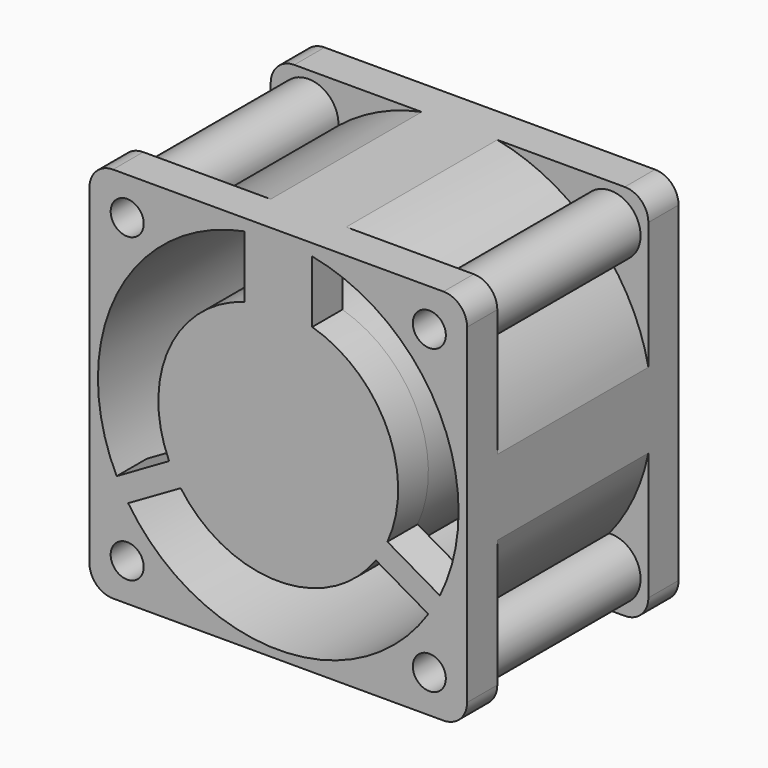
from build123d import *

# Parameters (mm, degrees)
F0_W     = 40
F0_H     = 40
F0_R     = 1.75
F0_R_2   = 19.1
F1_DEPTH = 14
F3_DEPTH = 10
F4_R     = 2.5
F6_DEPTH = 4


with BuildPart() as f1:
    # F0 (on Front) → F1 (new body, symmetric)
    with BuildSketch(Plane.XZ):
        Rectangle(F0_W, F0_H)
        with Locations((-16, -16)):
            Circle(F0_R, mode=Mode.SUBTRACT)
        with Locations((16, -16)):
            Circle(F0_R, mode=Mode.SUBTRACT)
        with Locations((-16, 16)):
            Circle(F0_R, mode=Mode.SUBTRACT)
        Circle(F0_R_2, mode=Mode.SUBTRACT)
        with Locations((16, 16)):
            Circle(F0_R, mode=Mode.SUBTRACT)
    extrude(amount=F1_DEPTH, both=True)

    # F2 (on Front) → F3 (cut, symmetric)
    with BuildSketch(Plane.XZ):
        with BuildLine():
            ThreePointArc((-15.8567471072, 12.8282333616), (-18.2450640303, 18.2450640303), (-12.8282333616, 15.8567471072))
            ThreePointArc((-12.8282333616, 15.8567471072), (-8.6653906808, 18.463775463), (-4, 20))
            Line((-4, 20), (-4, 20.3960780544))
            Line((-4, 20.3960780544), (-20.3960780544, 20.3960780544))
            Line((-20.3960780544, 20.3960780544), (-20.3960780544, 4))
            Line((-20.3960780544, 4), (-20, 4))
            ThreePointArc((-20, 4), (-18.463775463, 8.6653906808), (-15.8567471072, 12.8282333616))
        make_face()
        with BuildLine():
            Line((20.3960780544, 4), (20.3960780544, 20.3960780544))
            Line((20.3960780544, 20.3960780544), (4, 20.3960780544))
            Line((4, 20.3960780544), (4, 20))
            ThreePointArc((4, 20), (8.6653906808, 18.463775463), (12.8282333616, 15.8567471072))
            ThreePointArc((12.8282333616, 15.8567471072), (18.2450640303, 18.2450640303), (15.8567471072, 12.8282333616))
            ThreePointArc((15.8567471072, 12.8282333616), (18.463775463, 8.6653906808), (20, 4))
            Line((20, 4), (20.3960780544, 4))
        make_face()
        with BuildLine():
            Line((-20.3960780544, -4), (-20.3960780544, -20.3960780544))
            Line((-20.3960780544, -20.3960780544), (-4, -20.3960780544))
            Line((-4, -20.3960780544), (-4, -20))
            ThreePointArc((-4, -20), (-8.6653906808, -18.463775463), (-12.8282333616, -15.8567471072))
            ThreePointArc((-12.8282333616, -15.8567471072), (-18.2450640303, -18.2450640303), (-15.8567471072, -12.8282333616))
            ThreePointArc((-15.8567471072, -12.8282333616), (-18.463775463, -8.6653906808), (-20, -4))
            Line((-20, -4), (-20.3960780544, -4))
        make_face()
        with BuildLine():
            Line((4, -20.3960780544), (20.3960780544, -20.3960780544))
            Line((20.3960780544, -20.3960780544), (20.3960780544, -4))
            Line((20.3960780544, -4), (20, -4))
            ThreePointArc((20, -4), (18.463775463, -8.6653906808), (15.8567471072, -12.8282333616))
            ThreePointArc((15.8567471072, -12.8282333616), (18.2450640303, -18.2450640303), (12.8282333616, -15.8567471072))
            ThreePointArc((12.8282333616, -15.8567471072), (8.6653906808, -18.463775463), (4, -20))
            Line((4, -20), (4, -20.3960780544))
        make_face()
    extrude(amount=F3_DEPTH, both=True, mode=Mode.SUBTRACT)

    # F4
    f4_edges = [f1.edges().sort_by_distance(p)[0] for p in [
        (20, -12, 20),
        (20, 12, 20),
        (20, -12, -20),
        (20, 12, -20),
        (-20, -12, 20),
        (-20, 12, 20),
        (-20, 12, -20),
        (-20, -12, -20),
    ]]
    fillet(f4_edges, radius=F4_R)

    # F5 (on face) → F6 (join)
    with BuildSketch(Plane.XZ.offset(14)):
        with BuildLine():
            Line((-3.6, 18.7576650999), (-3.6, 12.1790804251))
            ThreePointArc((-3.6, 12.1790804251), (-11.5533772944, 5.2734687913), (-11.5597385217, -5.2595099877))
            Line((-11.5597385217, -5.2595099877), (-17.1195297525, -8.4694569515))
            ThreePointArc((-17.1195297525, -8.4694569515), (-16.5410852123, -9.55), (-15.8945297525, -10.5912191908))
            Line((-15.8945297525, -10.5912191908), (-10.3347385217, -7.381272227))
            ThreePointArc((-10.3347385217, -7.381272227), (0, -12.7), (10.3347385217, -7.381272227))
            Line((10.3347385217, -7.381272227), (15.8945297525, -10.5912191908))
            ThreePointArc((15.8945297525, -10.5912191908), (16.5410852123, -9.55), (17.1195297525, -8.4694569515))
            Line((17.1195297525, -8.4694569515), (11.5597385217, -5.2595099877))
            ThreePointArc((11.5597385217, -5.2595099877), (11.5533772944, 5.2734687913), (3.6, 12.1790804251))
            Line((3.6, 12.1790804251), (3.6, 18.7576650999))
            ThreePointArc((3.6, 18.7576650999), (0, 19.1), (-3.6, 18.7576650999))
        make_face()
    extrude(amount=-F6_DEPTH)

    # F7 (on Right) → F8 (revolve)
    with BuildSketch(Plane.YZ):
        Polygon((-10, 0), (14, 0), (14, 7.5), (4, 12.7), (-10, 12.7), align=None)
    revolve(axis=Axis((0, 1.2222109362, 0), (0, 1, 0)))


solid = f1.part
